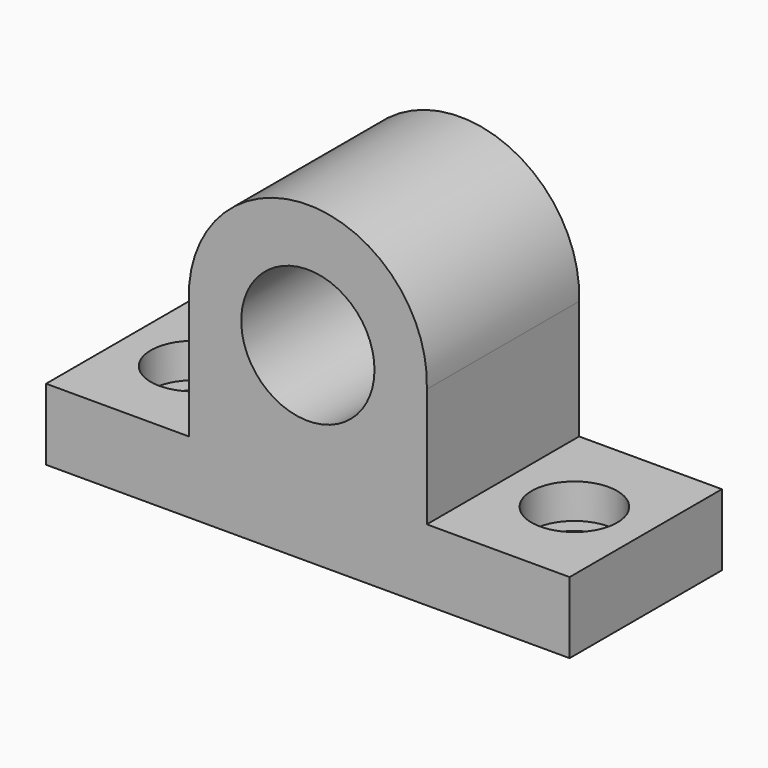
from build123d import *

# Parameters (mm, degrees)
F0_R     = 14
F1_DEPTH = 40
F2_R     = 5.5
F3_DEPTH = 15
F2_R_2   = 9
F4_DEPTH = 7.3


with BuildPart() as f1:
    # F0 (on Front) → F1 (new body)
    with BuildSketch(Plane.XZ):
        with BuildLine():
            Line((-55, 0), (0, 0))
            Line((0, 0), (55, 0))
            Line((55, 0), (55, 15))
            Line((55, 15), (25, 15))
            Line((25, 15), (25, 40))
            ThreePointArc((25, 40), (0, 66), (-25, 40))
            Line((-25, 40), (-25, 15))
            Line((-25, 15), (-55, 15))
            Line((-55, 15), (-55, 0))
        make_face()
        with Locations((0, 40)):
            Circle(F0_R, mode=Mode.SUBTRACT)
    extrude(amount=F1_DEPTH)

    # F2 (on face) → F3 (cut)
    with BuildSketch(Plane.XY.offset(15)):
        with Locations((40, -20)):
            Circle(F2_R)
        with Locations((-40, -20)):
            Circle(F2_R)
    extrude(amount=-F3_DEPTH, mode=Mode.SUBTRACT)

    # F2 (on face) → F4 (cut)
    with BuildSketch(Plane.XY.offset(15)):
        with Locations((40, -20)):
            Circle(F2_R_2)
        with Locations((40, -20)):
            Circle(F2_R, mode=Mode.SUBTRACT)
        with Locations((-40, -20)):
            Circle(F2_R_2)
        with Locations((-40, -20)):
            Circle(F2_R, mode=Mode.SUBTRACT)
    extrude(amount=-F4_DEPTH, mode=Mode.SUBTRACT)


solid = f1.part
